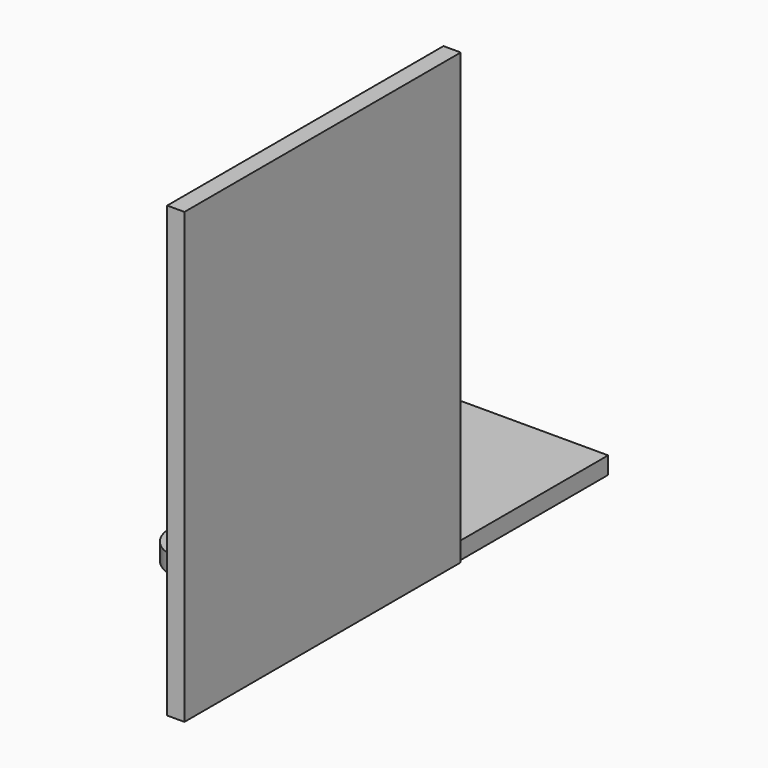
from build123d import *

# Parameters (mm, degrees)
F1_W     = 508
F1_H     = 660.4
F2_DEPTH = 25.4
F3_DEPTH = 25.4


with BuildPart() as f2:
    # F1 (on Right) → F2 (new body)
    with BuildSketch(Plane.YZ):
        with Locations((-318.127579, 330.2)):
            Rectangle(F1_W, F1_H)
    extrude(amount=F2_DEPTH)

    # F0 (on Top) → F3 (join)
    with BuildSketch(Plane.XY):
        with BuildLine():
            Line((21.635243, 211.565247), (-206.964757, 211.565247))
            ThreePointArc((-206.964757, 211.565247), (-242.885782, 196.686271), (-257.764757, 160.765247))
            Line((-257.764757, 160.765247), (-257.764757, -245.634753))
            ThreePointArc((-257.764757, -245.634753), (-242.885782, -281.555778), (-206.964757, -296.434753))
            Line((-206.964757, -296.434753), (21.635243, -296.434753))
            Line((21.635243, -296.434753), (21.635243, 211.565247))
        make_face()
    extrude(amount=F3_DEPTH)


solid = f2.part
